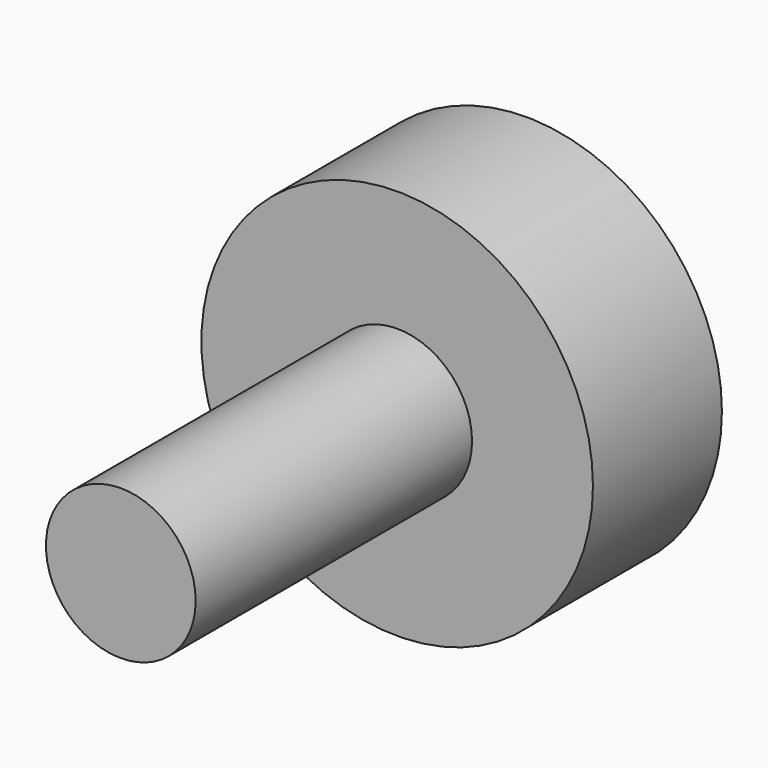
from build123d import *

# Parameters (mm, degrees)
CYLINDER010_R     = 8.5
CYLINDER010_DEPTH = 7
CYLINDER011_R     = 3.25
CYLINDER011_DEPTH = 15


with BuildPart() as potentiometerbody:
    # Cylinder010 → Cylinder010 (new body)
    with BuildSketch(Plane(origin=(19.5, 46, 14), x_dir=(1, 0, 0), z_dir=(0, -1, 0))):
        Circle(CYLINDER010_R)
    extrude(amount=CYLINDER010_DEPTH)


with BuildPart() as potentiometer:
    # Cylinder011 → Cylinder011 (new body)
    with BuildSketch(Plane(origin=(19.5, 39, 14), x_dir=(1, 0, 0), z_dir=(0, -1, 0))):
        Circle(CYLINDER011_R)
    extrude(amount=CYLINDER011_DEPTH)

    # Fusion010: union PotentiometerBody
    add(potentiometerbody.part)


solid = potentiometer.part
